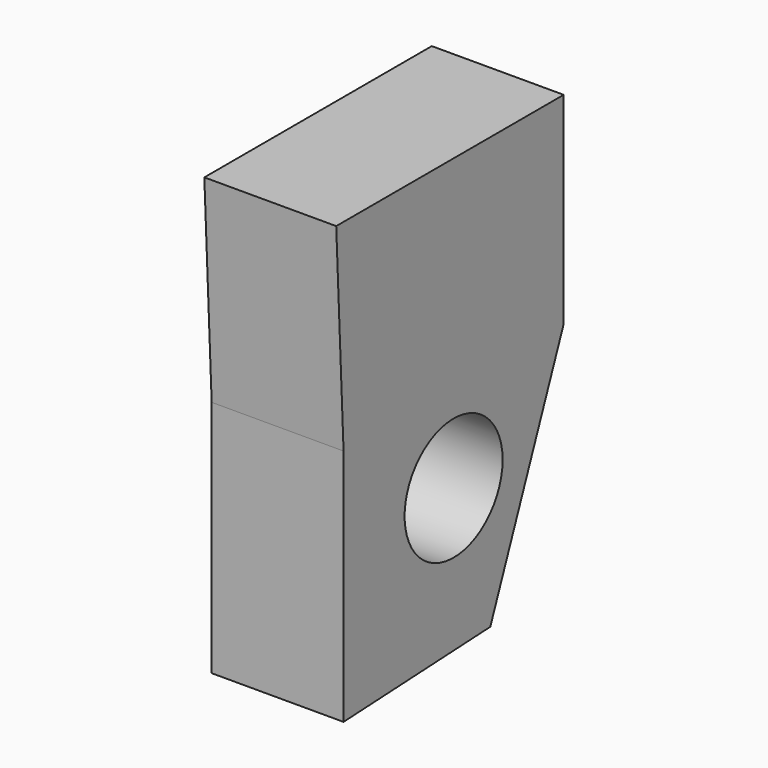
from build123d import *

# Parameters (mm, degrees)
F0_R     = 1.179689
F1_DEPTH = 2.54


with BuildPart() as f1:
    # F0 (on Right) → F1 (new body)
    with BuildSketch(Plane.YZ):
        Polygon((2.86521, 4.212468), (-2.610088, 4.212468), (-2.433466, 0.326772), (2.86521, 0.326772), align=None)
        Polygon((2.86521, 0.326772), (-2.433466, 0.326772), (-2.433466, -4.265413), (1.098984, -4.08879), align=None)
        with Locations((0.215872, -1.377823)):
            Circle(F0_R, mode=Mode.SUBTRACT)
    extrude(amount=F1_DEPTH)


solid = f1.part
